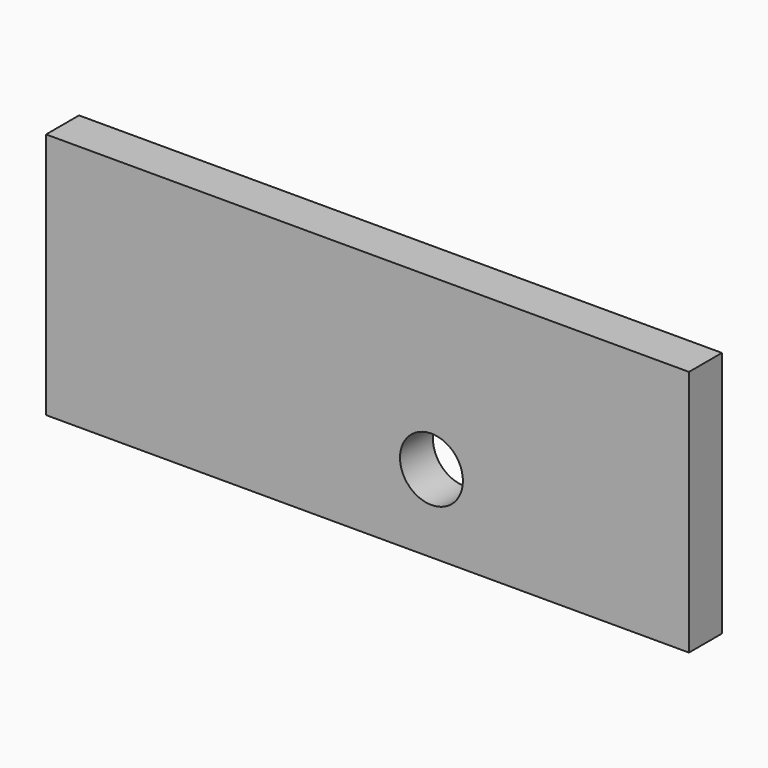
from build123d import *

# Parameters (mm, degrees)
F3_W     = 198.272958
F3_H     = 76.213912
F3_R     = 9.7
F4_DEPTH = 12.7


with BuildPart() as f4:
    # F3 (on face) → F4 (new body)
    with BuildSketch(Plane.XZ):
        Rectangle(F3_W, F3_H)
        with Locations((19.710492, -14.162354)):
            Circle(F3_R, mode=Mode.SUBTRACT)
    extrude(amount=F4_DEPTH)


solid = f4.part
